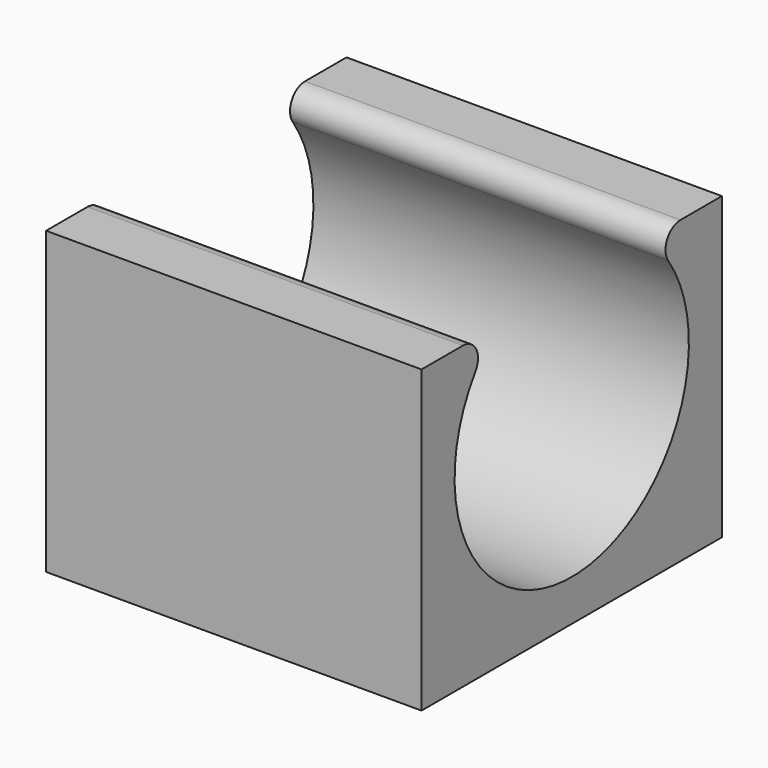
from build123d import *

# Parameters (mm, degrees)
F1_DEPTH = 25.4
F2_R     = 1.27


with BuildPart() as f1:
    # F0 (on Right) → F1 (new body)
    with BuildSketch(Plane.YZ):
        with BuildLine():
            Line((13.149259, 31.453814), (13.149259, 11.133814))
            Line((13.149259, 11.133814), (38.549259, 11.133814))
            Line((38.549259, 11.133814), (38.549259, 31.453814))
            Line((38.549259, 31.453814), (32.178856, 31.453814))
            ThreePointArc((32.178856, 31.453814), (25.849208, 13.927814), (19.519561, 31.453814))
            Line((19.519561, 31.453814), (13.149259, 31.453814))
        make_face()
    extrude(amount=F1_DEPTH)

    # F2
    f2_edges = [f1.edges().sort_by_distance(p)[0] for p in [
        (12.7, 32.178856, 31.453814),
        (12.7, 19.519561, 31.453814),
    ]]
    fillet(f2_edges, radius=F2_R)


solid = f1.part
